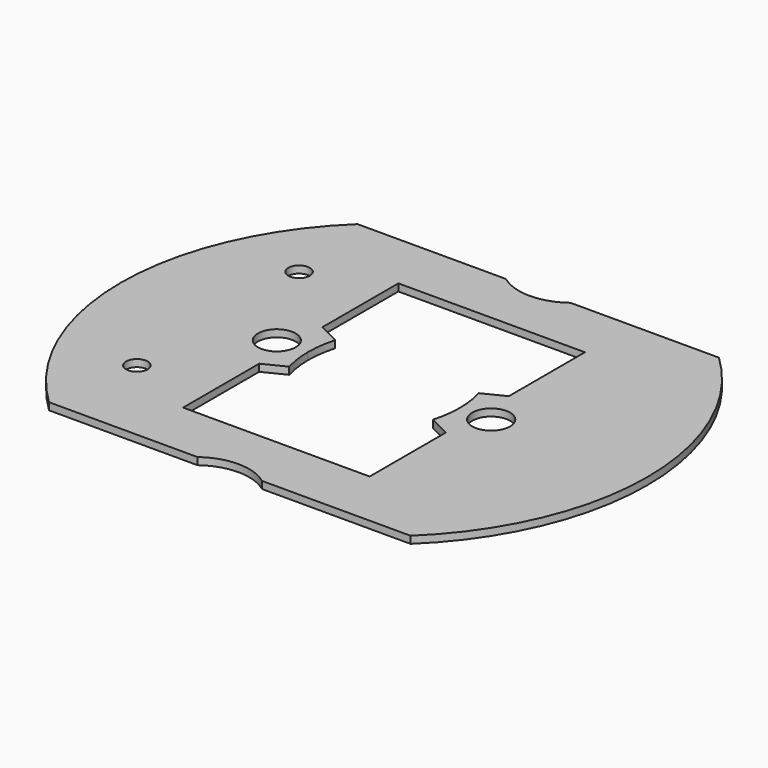
from build123d import *

# Parameters (mm, degrees)
F0_R     = 3
F0_R_2   = 5.25
F1_DEPTH = 2


with BuildPart() as f1:
    # F0 (on Top) → F1 (new body)
    with BuildSketch(Plane.XY):
        with BuildLine():
            Line((-106.994636, 73.57139), (-148.369657, 73.57139))
            ThreePointArc((-148.369657, 73.57139), (-171.369657, 19.821374), (-148.369657, -33.928643))
            Line((-148.369657, -33.928643), (-106.994636, -33.928643))
            ThreePointArc((-106.994636, -33.928643), (-97.994636, -30.928643), (-88.994636, -33.928643))
            Line((-88.994636, -33.928643), (-47.619614, -33.928643))
            ThreePointArc((-47.619614, -33.928643), (-24.619614, 19.821374), (-47.619614, 73.57139))
            Line((-47.619614, 73.57139), (-88.994636, 73.57139))
            ThreePointArc((-88.994636, 73.57139), (-97.994636, 70.57139), (-106.994636, 73.57139))
        make_face()
        with Locations((-144.276634, -8.428643)):
            Circle(F0_R, mode=Mode.SUBTRACT)
        with Locations((-127.869657, 19.821374)):
            Circle(F0_R_2, mode=Mode.SUBTRACT)
        with Locations((-68.119614, 19.821374)):
            Circle(F0_R_2, mode=Mode.SUBTRACT)
        with BuildLine():
            Line((-123.994636, 30.821374), (-123.994636, 57.321374))
            Line((-123.994636, 57.321374), (-71.994636, 57.321374))
            Line((-71.994636, 57.321374), (-71.994636, 30.821374))
            Line((-71.994636, 30.821374), (-77.983549, 27.821374))
            ThreePointArc((-77.983549, 27.821374), (-77.149435, 23.859964), (-76.869614, 19.821374))
            ThreePointArc((-76.869614, 19.821374), (-77.149435, 15.782783), (-77.983549, 11.821374))
            Line((-77.983549, 11.821374), (-71.994636, 8.821374))
            Line((-71.994636, 8.821374), (-71.994636, -17.678626))
            Line((-71.994636, -17.678626), (-123.994636, -17.678626))
            Line((-123.994636, -17.678626), (-123.994636, 8.821374))
            Line((-123.994636, 8.821374), (-118.005723, 11.821374))
            ThreePointArc((-118.005723, 11.821374), (-118.839837, 15.782783), (-119.119657, 19.821374))
            ThreePointArc((-119.119657, 19.821374), (-118.839837, 23.859964), (-118.005723, 27.821374))
            Line((-118.005723, 27.821374), (-123.994636, 30.821374))
        make_face(mode=Mode.SUBTRACT)
        with Locations((-144.276634, 48.07139)):
            Circle(F0_R, mode=Mode.SUBTRACT)
    extrude(amount=F1_DEPTH)


solid = f1.part
